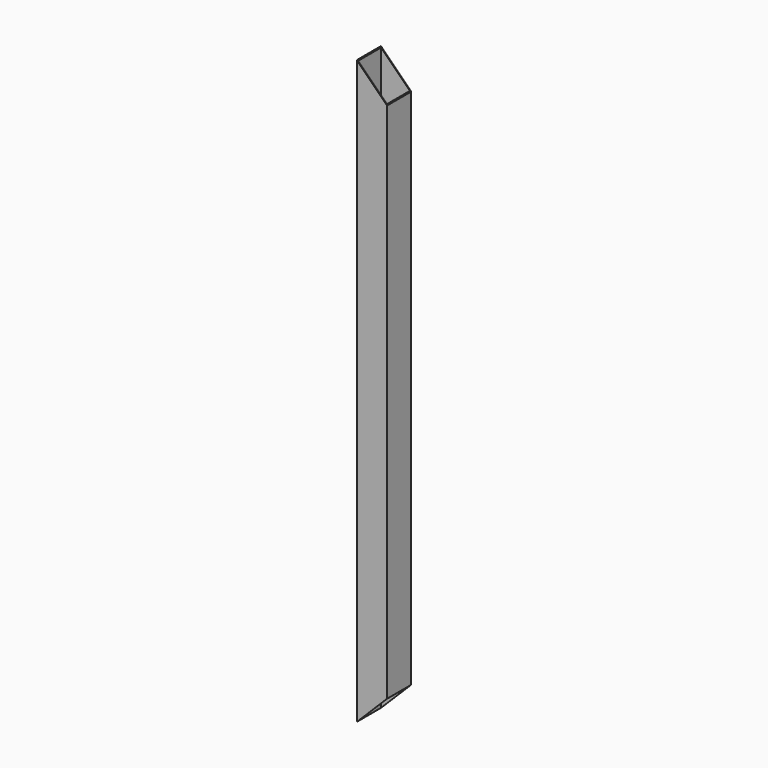
from build123d import *

# Parameters (mm, degrees)
F0_W     = 40
F0_H     = 40
F0_W_2   = 38
F0_H_2   = 38
F1_DEPTH = 385
F3_DEPTH = 100


with BuildPart() as f1:
    # F0 (on Top) → F1 (new body, symmetric)
    with BuildSketch(Plane.XY):
        Rectangle(F0_W, F0_H)
        Rectangle(F0_W_2, F0_H_2, mode=Mode.SUBTRACT)
    extrude(amount=F1_DEPTH, both=True)

    # F2 (on face) → F3 (cut)
    with BuildSketch(Plane.XZ.offset(20)):
        Polygon((20, -345), (-20, -385), (20, -385), align=None)
        Polygon((20, 385), (-20, 385), (20, 345), align=None)
    extrude(amount=-F3_DEPTH, mode=Mode.SUBTRACT)


solid = f1.part
